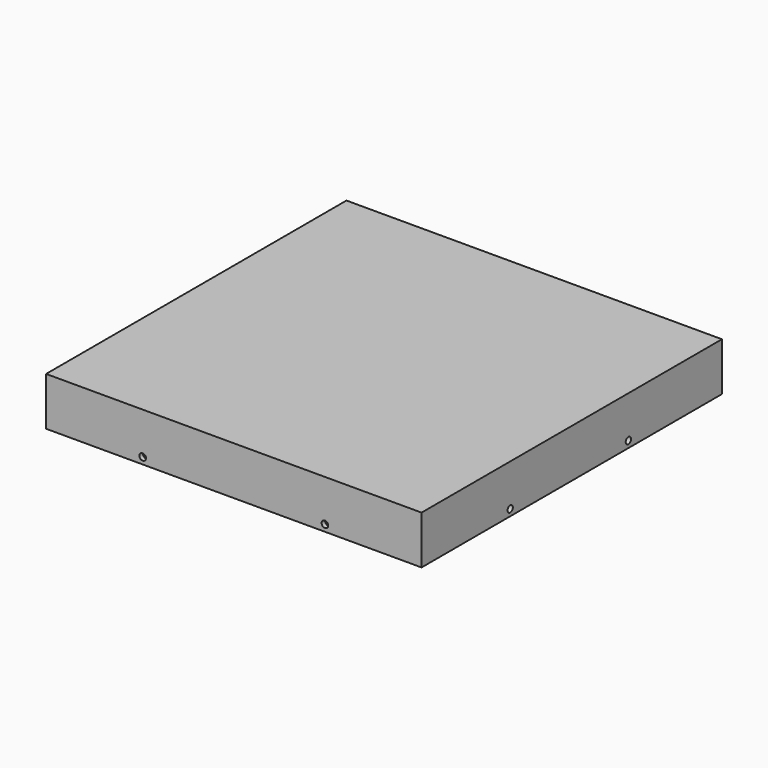
from build123d import *

# Parameters (mm, degrees)
SKETCH036_W     = 171
SKETCH036_H     = 171
PAD018_DEPTH    = 22
SKETCH037_W     = 167
SKETCH037_H     = 167
POCKET018_DEPTH = 21.5
SKETCH038_R     = 1.5
POCKET019_DEPTH = 171.001
SKETCH039_R     = 1.5
POCKET020_DEPTH = 171.001


with BuildPart() as part:
    # Sketch036 → Pad018 (new body)
    with BuildSketch(Plane.XY):
        with Locations((83, 83)):
            Rectangle(SKETCH036_W, SKETCH036_H)
    extrude(amount=PAD018_DEPTH)

    # Sketch037 (on Face5 of Pad018) → Pocket018 (cut)
    with BuildSketch(Plane(origin=(0, 0, 0), x_dir=(1, 0, 0), z_dir=(0, 0, -1))):
        with Locations((83, -83)):
            Rectangle(SKETCH037_W, SKETCH037_H)
    extrude(amount=-POCKET018_DEPTH, mode=Mode.SUBTRACT)

    # Sketch038 (on Face6 of Pocket018) → Pocket019 (cut, through all)
    with BuildSketch(Plane.XZ.offset(2.5)):
        with Locations((41.5, 3)):
            Circle(SKETCH038_R)
        with Locations((124.5, 3)):
            Circle(SKETCH038_R)
    extrude(amount=-POCKET019_DEPTH, mode=Mode.SUBTRACT)

    # Sketch039 (on Face5 of Pocket019) → Pocket020 (cut, through all)
    with BuildSketch(Plane.YZ.offset(168.5)):
        with Locations((47.981081, 3)):
            Circle(SKETCH039_R)
        with Locations((115.239796, 3)):
            Circle(SKETCH039_R)
    extrude(amount=-POCKET020_DEPTH, mode=Mode.SUBTRACT)


solid = part.part
